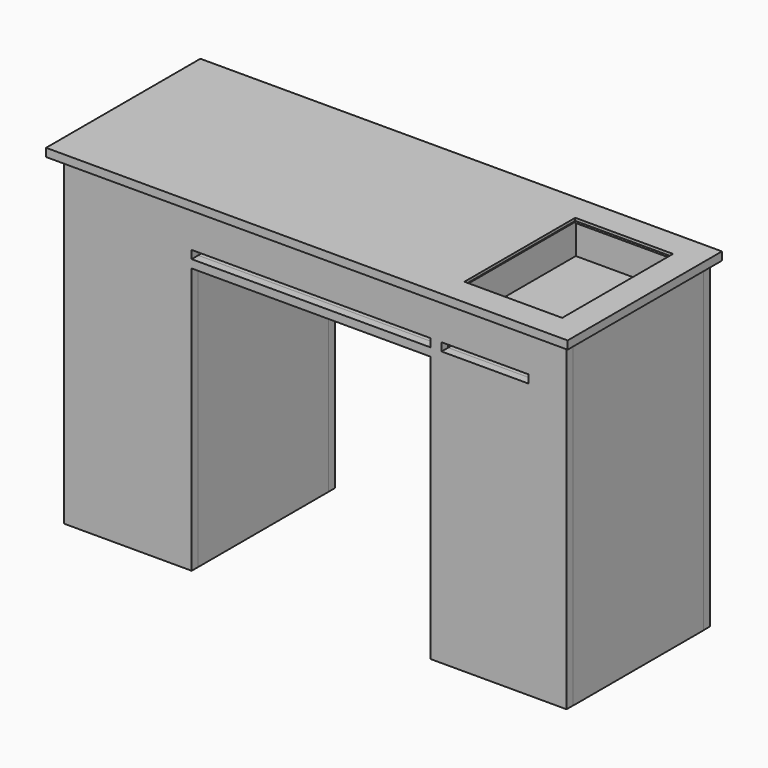
from build123d import *

# Parameters (mm, degrees)
F1_DEPTH  = 19.05
F2_W      = 1219.2
F2_H      = 450.85
F3_DEPTH  = 19.05
F6_DEPTH  = 19.05
F9_W      = 381
F9_H      = 749.3
F10_DEPTH = 19.05
F11_W     = 381
F11_H     = 749.3
F12_DEPTH = 19.05
F13_W     = 558.8
F13_H     = 19.05
F14_DEPTH = 19.05
F15_W     = 203.2
F15_H     = 19.05
F16_DEPTH = 19.05
F17_W     = 228.6
F17_H     = 323.85
F18_DEPTH = 19.05
F19_W     = 558.8
F19_H     = 381
F19_W_2   = 520.7
F19_H_2   = 342.9
F19_W_3   = 279.70988
F20_DEPTH = 12.7
F21_W     = 558.8
F21_H     = 381
F21_W_2   = 520.7
F21_H_2   = 342.9
F21_W_3   = 203.2
F21_W_4   = 165.1
F22_DEPTH = 12.7
F23_W     = 19.05
F23_H     = 381
F24_DEPTH = 749.3
F25_W     = 254
F25_H     = 349.25
F26_DEPTH = 12.7


with BuildPart() as f1:
    # F0 (on Front) → F1 (new body)
    with BuildSketch(Plane.XZ):
        Polygon((587.375, -374.65), (587.375, 374.65), (-587.375, 374.65), (-587.375, -374.65), (-288.925, -374.65), (-288.925, 247.65), (269.875, 247.65), (269.875, -374.65), align=None)
    extrude(amount=F1_DEPTH)

    # F2 (on face) → F3 (join)
    with BuildSketch(Plane.XY.offset(374.65)):
        with Locations((-9.525, 193.675)):
            Rectangle(F2_W, F2_H)
    extrude(amount=F3_DEPTH)

    # F5 (on offset) → F6 (join)
    with BuildSketch(Plane.XZ.offset(-400.05)):
        Polygon((587.375, 374.65), (-587.375, 374.65), (-587.375, -374.65), (-288.925, -374.65), (-288.925, 247.65), (269.875, 247.65), (269.875, -374.65), (587.375, -374.65), align=None)
    extrude(amount=F6_DEPTH)

    # F13 (on face) → F14 (cut)
    with BuildSketch(Plane.XZ.offset(19.05)):
        with Locations((-9.525, 276.225)):
            Rectangle(F13_W, F13_H)
    extrude(amount=-F14_DEPTH, mode=Mode.SUBTRACT)

    # F15 (on face) → F16 (cut)
    with BuildSketch(Plane.XZ.offset(19.05)):
        with Locations((396.875, 276.225)):
            Rectangle(F15_W, F15_H)
    extrude(amount=-F16_DEPTH, mode=Mode.SUBTRACT)

    # F17 (on face) → F18 (cut)
    with BuildSketch(Plane.XY.offset(393.7)):
        with Locations((422.275, 193.675)):
            Rectangle(F17_W, F17_H)
    extrude(amount=-F18_DEPTH, mode=Mode.SUBTRACT)

    # F25 (on face) → F26 (cut)
    with BuildSketch(Plane(origin=(0, 0, 374.65), x_dir=(1, 0, 0), z_dir=(0, 0, -1))):
        with Locations((422.275, -193.675)):
            Rectangle(F25_W, F25_H)
    extrude(amount=-F26_DEPTH, mode=Mode.SUBTRACT)


with BuildPart() as f10:
    # F9 (on offset) → F10 (new body)
    with BuildSketch(Plane.YZ.offset(-587.68488)):
        with Locations((190.5, 0)):
            Rectangle(F9_W, F9_H)
    extrude(amount=F10_DEPTH)


with BuildPart() as f12:
    # F11 (on offset) → F12 (new body)
    with BuildSketch(Plane.YZ.offset(587.68488)):
        with Locations((190.5, 0)):
            Rectangle(F11_W, F11_H)
    extrude(amount=-F12_DEPTH)


with BuildPart() as f20:
    # F19 (on face) → F20 (new body)
    with BuildSketch(Plane(origin=(0, 0, 285.75), x_dir=(1, 0, 0), z_dir=(0, 0, -1))):
        with Locations((-9.525, -190.5)):
            Rectangle(F19_W, F19_H)
        with Locations((-9.525, -190.5)):
            Rectangle(F19_W_2, F19_H_2, mode=Mode.SUBTRACT)
        with Locations((428.77994, -190.5)):
            Rectangle(F19_W_3, F19_H)
    extrude(amount=-F20_DEPTH)


with BuildPart() as f22:
    # F21 (on face) → F22 (new body)
    with BuildSketch(Plane.XY.offset(266.7)):
        with Locations((-9.525, 190.5)):
            Rectangle(F21_W, F21_H)
        with Locations((-9.525, 190.5)):
            Rectangle(F21_W_2, F21_H_2, mode=Mode.SUBTRACT)
        with Locations((396.875, 190.5)):
            Rectangle(F21_W_3, F21_H)
        with Locations((396.875, 190.5)):
            Rectangle(F21_W_4, F21_H_2, mode=Mode.SUBTRACT)
    extrude(amount=-F22_DEPTH)


with BuildPart() as f24:
    # F23 (on face) → F24 (new body)
    with BuildSketch(Plane(origin=(0, 0, 374.65), x_dir=(1, 0, 0), z_dir=(0, 0, -1))):
        with Locations((-298.45, -190.5)):
            Rectangle(F23_W, F23_H)
        with Locations((279.4, -190.5)):
            Rectangle(F23_W, F23_H)
    extrude(amount=F24_DEPTH)


solid = Compound([f1.part, f10.part, f12.part, f20.part, f22.part, f24.part])
